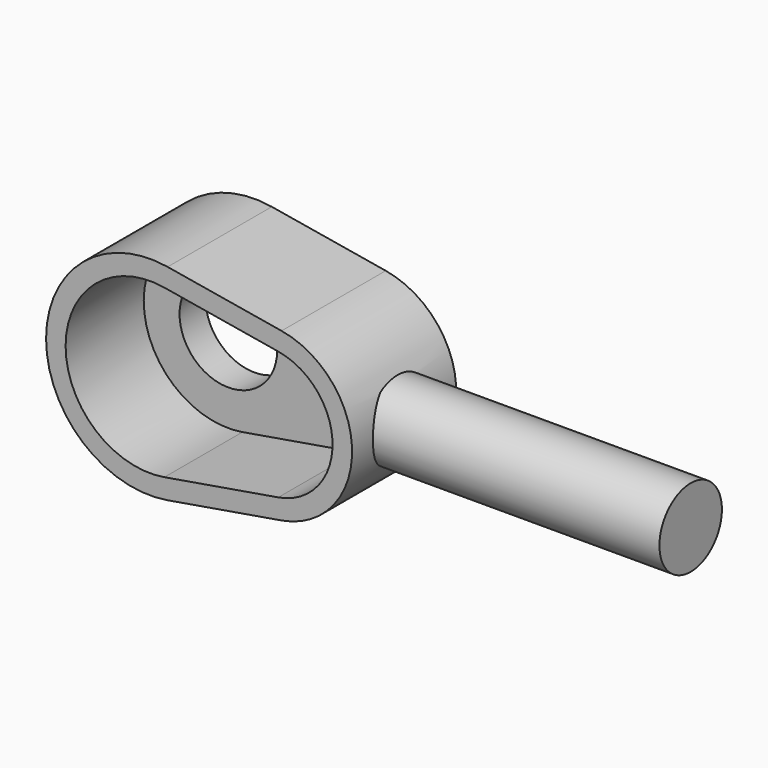
from build123d import *

# Parameters (mm, degrees)
F1_DEPTH = 20
F3_DEPTH = 15
F4_R     = 5
F4_R_2   = 7.5
F5_DEPTH = 5
F7_R     = 6
F8_DEPTH = 45


with BuildPart() as f1:
    # F0 (on Front) → F1 (new body)
    with BuildSketch(Plane.XZ):
        with BuildLine():
            ThreePointArc((2.666667, 15.776213), (-16, 0), (2.666667, -15.776213))
            Line((2.666667, -15.776213), (20.166667, -12.818173))
            ThreePointArc((20.166667, -12.818173), (31, 0), (20.166667, 12.818173))
            Line((20.166667, 12.818173), (2.666667, 15.776213))
        make_face()
    extrude(amount=F1_DEPTH)

    # F2 (on face) → F3 (cut)
    with BuildSketch(Plane.XZ.offset(20)):
        with BuildLine():
            Line((19.666667, 9.860133), (2.166667, 12.818173))
            ThreePointArc((2.166667, 12.818173), (-13, 0), (2.166667, -12.818173))
            Line((2.166667, -12.818173), (19.666667, -9.860133))
            ThreePointArc((19.666667, -9.860133), (28, 0), (19.666667, 9.860133))
        make_face()
    extrude(amount=-F3_DEPTH, mode=Mode.SUBTRACT)

    # F4 (on face) → F5 (cut)
    with BuildSketch(Plane.XZ.offset(5)):
        with Locations((18, 0)):
            Circle(F4_R)
        Circle(F4_R_2)
    extrude(amount=-F5_DEPTH, mode=Mode.SUBTRACT)

    # F7 (on offset) → F8 (join)
    with BuildSketch(Plane.YZ.offset(30)):
        with Locations((-10, 0)):
            Circle(F7_R)
    extrude(amount=F8_DEPTH)


solid = f1.part
